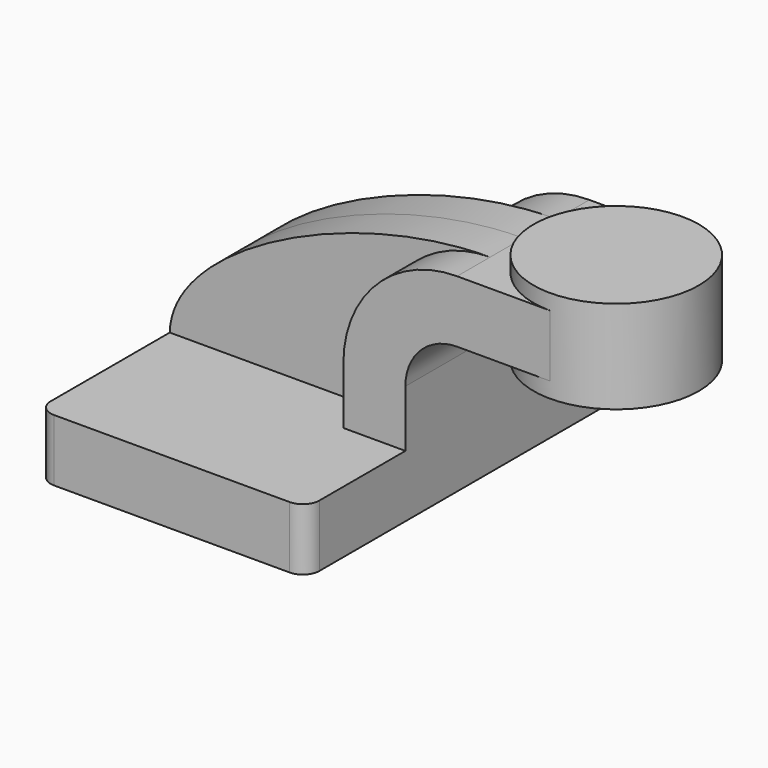
from build123d import *

# Parameters (mm, degrees)
F1_DEPTH = 63.5
F2_DEPTH = 25.4
F3_DEPTH = 12.7
F5_R     = 5.08


with BuildPart() as f1:
    # F0 (on Front) → F1 (new body, symmetric)
    with BuildSketch(Plane.XZ):
        Polygon((-41.275, 9.525), (-41.275, -9.525), (41.275, -9.525), (41.275, 9.525), (22.225, 9.525), align=None)
    extrude(amount=F1_DEPTH, both=True)

    # F0 (on Front) → F2 (join, symmetric)
    with BuildSketch(Plane.XZ):
        with BuildLine():
            Line((22.225, 9.525), (41.275, 9.525))
            Line((41.275, 9.525), (41.275, 27.0002))
            ThreePointArc((41.275, 27.0002), (45.92468, 38.22552), (57.15, 42.8752))
            Line((57.15, 42.8752), (60.325, 42.8752))
            Line((60.325, 42.8752), (60.325, 61.9252))
            Line((60.325, 61.9252), (57.15, 61.9252))
            ThreePointArc((57.15, 61.9252), (32.454296, 51.695904), (22.225, 27.0002))
            Line((22.225, 27.0002), (22.225, 9.525))
        make_face()
        Polygon((77.207536, 61.9252), (60.325, 61.9252), (60.325, 42.8752), (77.207536, 42.8752), (85.725, 42.8752), (85.725, 61.9252), align=None)
    extrude(amount=F2_DEPTH, both=True)

    # F0 (on Front) → F3 (join, symmetric)
    with BuildSketch(Plane.XZ):
        with BuildLine():
            add(Edge.make_bspline(
                [(-41.275, 9.525), (-40.73476, 34.741372), (14.03527, 61.9252), (57.15, 61.9252)],
                knots=[0, 0, 0, 0, 111.504536, 111.504536, 111.504536, 111.504536], degree=3))
            Line((-41.275, 9.525), (22.225, 9.525))
            Line((22.225, 9.525), (22.225, 27.0002))
            ThreePointArc((22.225, 27.0002), (32.454296, 51.695904), (57.15, 61.9252))
        make_face()
    extrude(amount=F3_DEPTH, both=True)

    # F0 (on Front) → F4 (revolve)
    with BuildSketch(Plane.XZ):
        Polygon((111.125, 66.675), (85.725, 66.675), (85.725, 61.9252), (85.725, 42.8752), (85.725, 38.1), (111.125, 38.1), align=None)
    revolve(axis=Axis((85.725, 0, 52.3875), (0, 0, -1)))

    # F5
    f5_edges = [f1.edges().sort_by_distance(p)[0] for p in [
        (41.275, -63.5, 0),
        (-41.275, -63.5, 0),
        (41.275, 63.5, 0),
        (-41.275, 63.5, 0),
    ]]
    fillet(f5_edges, radius=F5_R)


solid = f1.part
